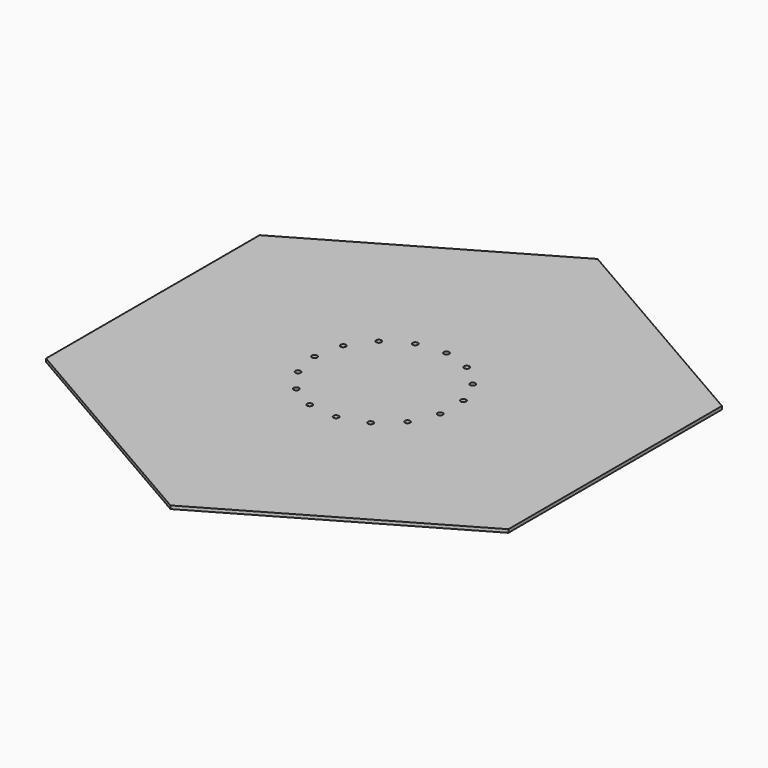
from build123d import *

# Parameters (mm, degrees)
F1_DEPTH = 3
F2_R     = 2.5
F3_DEPTH = 3


with BuildPart() as f1:
    # F0 (on Top) → F1 (new body)
    with BuildSketch(Plane.XY):
        with BuildLine():
            ThreePointArc((108.2531706913, -187.5000027607), (187.4999986196, -108.2531778639), (216.5063509461, 0))
            ThreePointArc((216.5063509461, 0), (187.4999990763, 108.253177073), (108.2531722731, 187.5000018475))
            ThreePointArc((108.2531722731, 187.5000018475), (1.0905e-06, 216.5063509461), (-108.2531703844, 187.5000029379))
            ThreePointArc((-108.2531703844, 187.5000029379), (-187.4999985558, 108.2531779745), (-216.5063509461, -9.91e-08))
            ThreePointArc((-216.5063509461, -9.91e-08), (-187.4999988892, -108.2531773971), (-108.2531717109, -187.5000021721))
            ThreePointArc((-108.2531717109, -187.5000021721), (-5.886e-07, -216.5063509461), (108.2531706913, -187.5000027607))
        make_face()
        with BuildLine():
            ThreePointArc((-216.5063509461, -9.91e-08), (-187.4999985558, 108.2531779745), (-108.2531703844, 187.5000029379))
            Line((-108.2531703844, 187.5000029379), (-216.5063509461, 125))
            Line((-216.5063509461, 125), (-216.5063509461, -9.91e-08))
        make_face()
        with BuildLine():
            ThreePointArc((-108.2531703844, 187.5000029379), (1.0905e-06, 216.5063509461), (108.2531722731, 187.5000018475))
            Line((108.2531722731, 187.5000018475), (0, 250))
            Line((0, 250), (-108.2531703844, 187.5000029379))
        make_face()
        with BuildLine():
            ThreePointArc((108.2531722731, 187.5000018475), (187.4999990763, 108.253177073), (216.5063509461, 0))
            Line((216.5063509461, 0), (216.5063509461, 125))
            Line((216.5063509461, 125), (108.2531722731, 187.5000018475))
        make_face()
        with BuildLine():
            Line((216.5063509461, -125), (216.5063509461, 0))
            ThreePointArc((216.5063509461, 0), (187.4999986196, -108.2531778639), (108.2531706913, -187.5000027607))
            Line((108.2531706913, -187.5000027607), (216.5063509461, -125))
        make_face()
        with BuildLine():
            Line((0, -250), (108.2531706913, -187.5000027607))
            ThreePointArc((108.2531706913, -187.5000027607), (-5.886e-07, -216.5063509461), (-108.2531717109, -187.5000021721))
            Line((-108.2531717109, -187.5000021721), (0, -250))
        make_face()
        with BuildLine():
            Line((-216.5063509461, -125), (-108.2531717109, -187.5000021721))
            ThreePointArc((-108.2531717109, -187.5000021721), (-187.4999988892, -108.2531773971), (-216.5063509461, -9.91e-08))
            Line((-216.5063509461, -9.91e-08), (-216.5063509461, -125))
        make_face()
    extrude(amount=-F1_DEPTH)

    # F2 (on face) → F3 (cut, through all)
    with BuildSketch(Plane.XY):
        with Locations((-65, 0)):
            Circle(F2_R)
        with Locations((32.5, -56.291651246)):
            Circle(F2_R)
        with Locations((6.7943501124, -64.6439231989)):
            Circle(F2_R)
        with Locations((-20.0861046344, -61.8186735592)):
            Circle(F2_R)
        with Locations((-43.4934894133, -48.304413656)):
            Circle(F2_R)
        with Locations((-59.3804547468, -26.4378817999)):
            Circle(F2_R)
        with Locations((-59.3804547468, 26.4378817999)):
            Circle(F2_R)
        with Locations((-43.4934894133, 48.304413656)):
            Circle(F2_R)
        with Locations((-20.0861046344, 61.8186735592)):
            Circle(F2_R)
        with Locations((6.7943501124, 64.6439231989)):
            Circle(F2_R)
        with Locations((32.5, 56.291651246)):
            Circle(F2_R)
        with Locations((52.5861046344, 38.206041399)):
            Circle(F2_R)
        with Locations((63.5795940477, 13.5142599032)):
            Circle(F2_R)
        with Locations((63.5795940477, -13.5142599032)):
            Circle(F2_R)
        with Locations((52.5861046344, -38.206041399)):
            Circle(F2_R)
    extrude(amount=-F3_DEPTH, mode=Mode.SUBTRACT)


solid = f1.part
